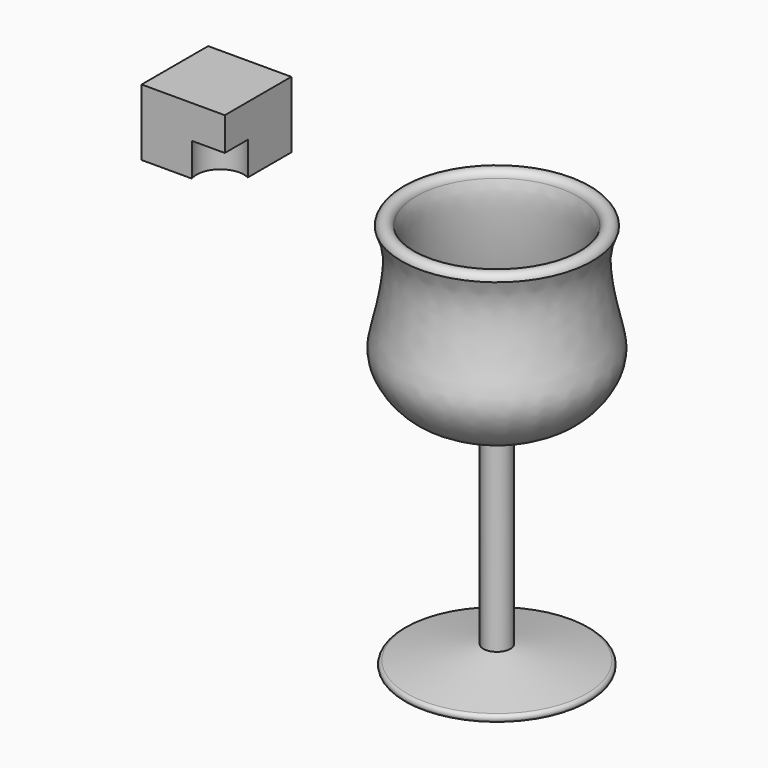
from build123d import *

# Parameters (mm, degrees)
F1_W     = 100
F1_H     = 100
F2_DEPTH = 80
F3_R     = 28.2498500024
F4_DEPTH = 40


with BuildPart() as f2:
    # F1 (on Top) → F2 (new body)
    with BuildSketch(Plane.XY):
        with Locations((2.0837765187, 15.9759061128)):
            Rectangle(F1_W, F1_H)
    extrude(amount=F2_DEPTH)

    # F3 (on Top) → F4 (cut)
    with BuildSketch(Plane.XY):
        with Locations((39.159052074, -24.6183741838)):
            Circle(F3_R)
    extrude(amount=F4_DEPTH, mode=Mode.SUBTRACT)


with BuildPart() as f6:
    # F5 (on Front) → F6 (revolve)
    with BuildSketch(Plane.XZ):
        with BuildLine():
            ThreePointArc((255.3120633346, 46.5263593917), (246.2891110646, 54.5620092861), (237.2345194023, 46.5620276159))
            add(Edge.make_bspline(
                [(237.2345194023, 46.5620276159), (240.7185791763, 38.1935033491), (249.4548051669, 17.2083751622), (237.4671252071, -52.1818704353), (224.5063168451, -91.0134548285), (254.451452612, -139.7651544369), (301.8819749036, -157.3410038212), (325.4223280567, -158.3314920932), (335.9123468399, -158.7916682833)],
                knots=[0, 0, 0, 0, 0.1373098904, 0.3439342784, 0.5033188906, 0.6809089145, 0.8561645338, 1, 1, 1, 1], degree=3))
            Line((335.9123468399, -158.7916682833), (335.9123468399, -396.0275948048))
            Line((335.9123468399, -396.0275948048), (244.0120130777, -413.4605824947))
            ThreePointArc((244.0120130777, -413.4605824947), (240.4152693368, -417.8037494421), (244.0120130777, -422.1469163895))
            Line((244.0120130777, -422.1469163895), (352.048012964, -422.1469163895))
            Line((352.048012964, -422.1469163895), (352.048012964, -139.0760858525))
            Line((352.048012964, -139.0760858525), (333.9247831067, -141.8357049405))
            add(Edge.make_bspline(
                [(255.3120633346, 46.5263593917), (258.1335518201, 39.4677424254), (260.1099584052, 19.1689678863), (251.116394426, -51.9013450724), (238.3067345809, -90.95337545), (265.2257003056, -133.1180735561), (314.899951954, -142.3798810503), (333.9247831067, -141.8357049405)],
                knots=[0, 0, 0, 0, 0.1488811429, 0.392868077, 0.576276655, 0.7647415438, 1, 1, 1, 1], degree=3))
        make_face()
    revolve(axis=Axis((352.048012964, 0, -280.611501121), (0, 0, 1)))


solid = Compound([f2.part, f6.part])
